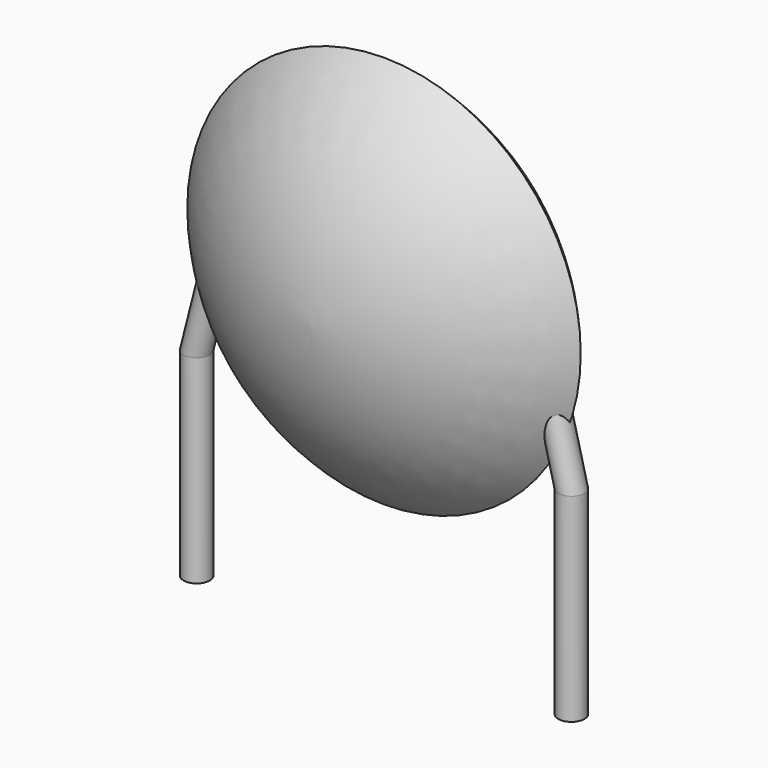
from build123d import *

# Parameters (mm, degrees)
SKETCH001_R       = 0.35
PAD001_DEPTH      = 2.1
PAD001_DEPTH_BACK = 3.2
SKETCH002_R       = 0.35
SKETCH003_R       = 0.35
SKETCH004_R       = 0.35
SKETCH005_R       = 0.35


with BuildPart() as pad001:
    # Sketch001 → Pad001 (new body, two sides)
    with BuildSketch(Plane.XY) as pad001_sk:
        Circle(SKETCH001_R)
        with Locations((10, 0)):
            Circle(SKETCH001_R)
    extrude(amount=PAD001_DEPTH)
    extrude(pad001_sk.sketch, amount=-PAD001_DEPTH_BACK)


with BuildPart() as revolution:
    # Sketch → Revolution (revolve)
    with BuildSketch(Plane.YZ.offset(5)):
        with BuildLine():
            Line((-2.5, 5.35), (2.5, 5.35))
            ThreePointArc((0, 0.1), (1.803019, 2.461658), (2.5, 5.35))
            ThreePointArc((-2.5, 5.35), (-1.803019, 2.461658), (0, 0.1))
        make_face()
    revolve(axis=Axis((5, -3.32079, 5.35), (0, 1, 0)))


with BuildPart() as loft_body:
    # Sketch002 → Loft section 0
    with BuildSketch(Plane.XY.offset(5.25)):
        with Locations((0.8, 0)):
            Circle(SKETCH002_R)
    # Sketch003 → Loft section 1
    with BuildSketch(Plane.XY.offset(2.1)):
        Circle(SKETCH003_R)
    loft()


with BuildPart() as loft001:
    # Sketch004 → Loft001 section 0
    with BuildSketch(Plane.XY.offset(2.1)):
        with Locations((10, 0)):
            Circle(SKETCH004_R)
    # Sketch005 → Loft001 section 1
    with BuildSketch(Plane.XY.offset(5.25)):
        with Locations((9.2, 0)):
            Circle(SKETCH005_R)
    loft()


solid = Compound([pad001.part, revolution.part, loft_body.part, loft001.part])
